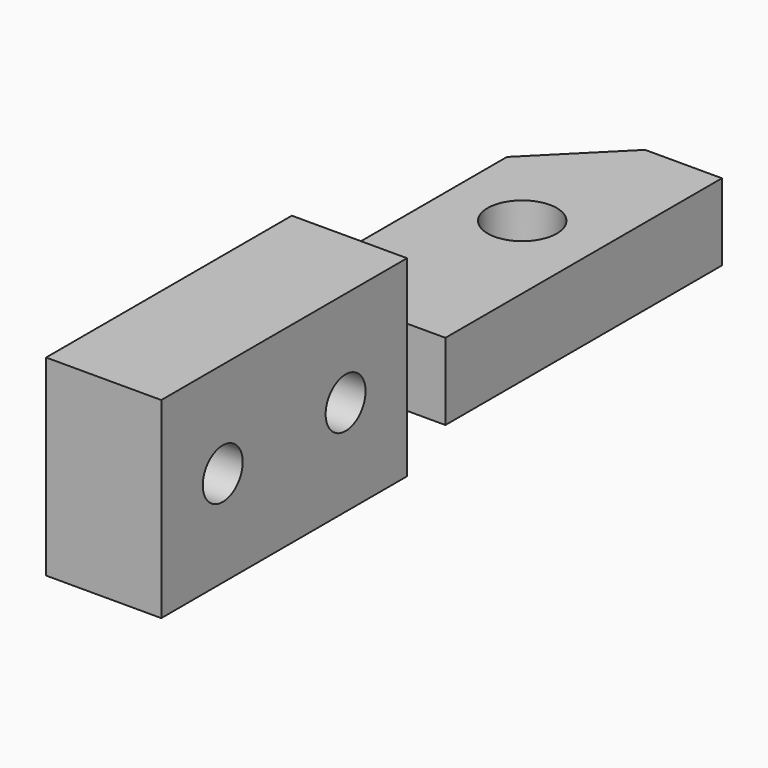
from build123d import *

# Parameters (mm, degrees)
CYLINDER084_R           = 1.3
CYLINDER084_DEPTH       = 40
CYLINDER084_PITCH_ANGLE = 90
CYLINDER083_R           = 1.3
CYLINDER083_DEPTH       = 40
CYLINDER083_PITCH_ANGLE = 90
CYLINDER082_R           = 1.3
CYLINDER082_DEPTH       = 40
CYLINDER082_PITCH_ANGLE = 90
CYLINDER060_R           = 1.8
CYLINDER060_DEPTH       = 40
BOX027_W                = 4
BOX027_H                = 16
BOX027_DEPTH            = 10
BOX024_W                = 8
BOX024_H                = 34
BOX024_DEPTH            = 4
BOX026_W                = 6
BOX026_H                = 16
BOX026_DEPTH            = 10
CHAMFER009_SIZE         = 4


with BuildPart() as cylinder362:
    # Cylinder084 → Cylinder084 (new body)
    with BuildSketch(Plane.XY):
        Circle(CYLINDER084_R)
    extrude(amount=CYLINDER084_DEPTH)


with BuildPart() as cylinder362_1:
    # Cylinder084 pitch: moved
    add(cylinder362.part.rotate(Axis((0, 0, 0), (0, 1, 0)), CYLINDER084_PITCH_ANGLE))


with BuildPart() as cylinder362_2:
    # Cylinder084 placement: moved
    add(cylinder362_1.part.moved(Location((-48, 7, 30))))


with BuildPart() as cylinder361:
    # Cylinder083 → Cylinder083 (new body)
    with BuildSketch(Plane.XY):
        Circle(CYLINDER083_R)
    extrude(amount=CYLINDER083_DEPTH)


with BuildPart() as cylinder361_1:
    # Cylinder083 pitch: moved
    add(cylinder361.part.rotate(Axis((0, 0, 0), (0, 1, 0)), CYLINDER083_PITCH_ANGLE))


with BuildPart() as cylinder361_2:
    # Cylinder083 placement: moved
    add(cylinder361_1.part.moved(Location((-67, -15, 30))))


with BuildPart() as hinge_screw_holes_b002:
    # Cylinder082 → Cylinder082 (new body)
    with BuildSketch(Plane.XY):
        Circle(CYLINDER082_R)
    extrude(amount=CYLINDER082_DEPTH)


with BuildPart() as hinge_screw_holes_b002_1:
    # Cylinder082 pitch: moved
    add(hinge_screw_holes_b002.part.rotate(Axis((0, 0, 0), (0, 1, 0)), CYLINDER082_PITCH_ANGLE))


with BuildPart() as hinge_screw_holes_b002_2:
    # Cylinder082 placement: moved
    add(hinge_screw_holes_b002_1.part.moved(Location((-92, -7, 30))))

    # Fusion055: union Cylinder361
    add(cylinder361_2.part)

    # Fusion056: union Cylinder362
    add(cylinder362_2.part)


with BuildPart() as hinge_screw_holes_b002_3:
    # Fusion056 placement: moved
    add(hinge_screw_holes_b002_2.part.moved(Location((0, 0, 96))))


with BuildPart() as cylinder338:
    # Cylinder060 → Cylinder060 (new body)
    with BuildSketch(Plane(origin=(-56, 7, 15), x_dir=(1, 0, 0), z_dir=(0, 0, 1))):
        Circle(CYLINDER060_R)
    extrude(amount=CYLINDER060_DEPTH)


with BuildPart() as cube015:
    # Box027 → Box027 (new body)
    with BuildSketch(Plane(origin=(-54, -19, 25), x_dir=(1, 0, 0), z_dir=(0, 0, 1))):
        with Locations((2, 8)):
            Rectangle(BOX027_W, BOX027_H)
    extrude(amount=BOX027_DEPTH)


with BuildPart() as cut033:
    # Box024 → Box024 (new body)
    with BuildSketch(Plane(origin=(-60, -19, 28), x_dir=(1, 0, 0), z_dir=(0, 0, 1))):
        with Locations((4, 17)):
            Rectangle(BOX024_W, BOX024_H)
    extrude(amount=BOX024_DEPTH)

    # Cut033: cut Cube015
    add(cube015.part, mode=Mode.SUBTRACT)


with BuildPart() as switch_rocker_g:
    # Box026 → Box026 (new body)
    with BuildSketch(Plane(origin=(-60, -19, 25), x_dir=(1, 0, 0), z_dir=(0, 0, 1))):
        with Locations((3, 8)):
            Rectangle(BOX026_W, BOX026_H)
    extrude(amount=BOX026_DEPTH)

    # Fusion039: union Cut033
    add(cut033.part)

    # Cut035: cut Cylinder338
    add(cylinder338.part, mode=Mode.SUBTRACT)


with BuildPart() as switch_rocker_g_1:
    # Cut035 placement: moved
    add(switch_rocker_g.part.moved(Location((0, 0, 96))))

    # Cut048: cut hinge-screw-holes-b002
    add(hinge_screw_holes_b002_3.part, mode=Mode.SUBTRACT)

    # Chamfer009
    chamfer009_edges = [switch_rocker_g_1.edges().sort_by_distance(p)[0] for p in [
        (-60, 15, 126),
    ]]
    chamfer(chamfer009_edges, length=CHAMFER009_SIZE)


solid = switch_rocker_g_1.part
